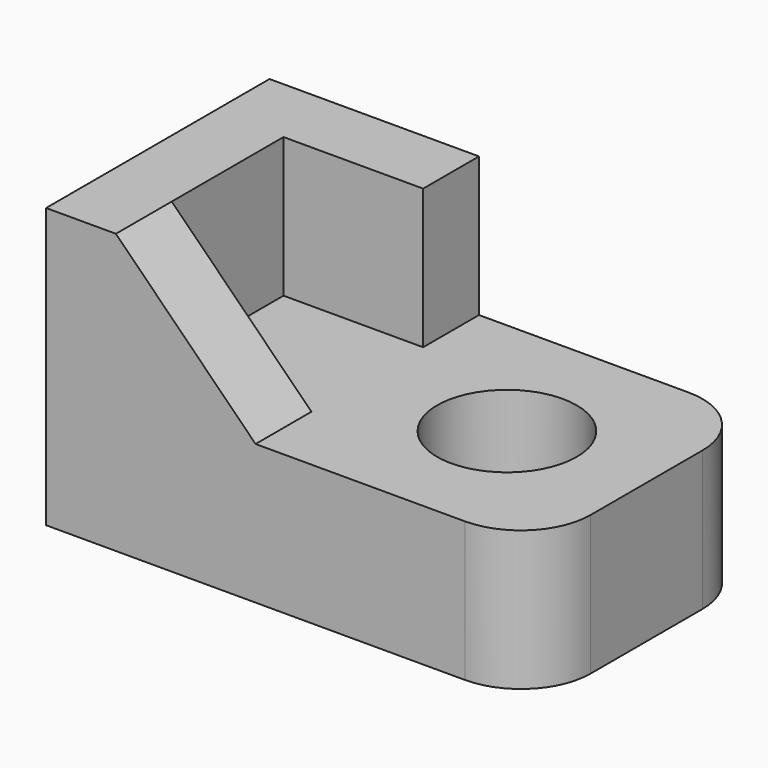
from build123d import *

# Parameters (mm, degrees)
F1_DEPTH = 40
F2_R     = 10
F3_DEPTH = 20
F4_DEPTH = 40.001
F6_DEPTH = 10.001


with BuildPart() as f1:
    # F0 (on Top) → F1 (new body)
    with BuildSketch(Plane.XY):
        with BuildLine():
            Line((0, 40), (0, 0))
            Line((0, 0), (60, 0))
            ThreePointArc((60, 0), (67.0710678119, 2.9289321881), (70, 10))
            Line((70, 10), (70, 30))
            ThreePointArc((70, 30), (67.0710678119, 37.0710678119), (60, 40))
            Line((60, 40), (0, 40))
        make_face()
    extrude(amount=F1_DEPTH)

    # F2 (on face) → F3 (cut)
    with BuildSketch(Plane.XY.offset(40)):
        with BuildLine():
            Line((60, 40), (30, 40))
            Line((30, 40), (30, 30))
            Line((30, 30), (10, 30))
            Line((10, 30), (10, 10))
            Line((10, 10), (30, 10))
            Line((30, 10), (30, 0))
            Line((30, 0), (60, 0))
            ThreePointArc((60, 0), (67.0710678119, 2.9289321881), (70, 10))
            Line((70, 10), (70, 30))
            ThreePointArc((70, 30), (67.0710678119, 37.0710678119), (60, 40))
        make_face()
        with Locations((50, 20)):
            Circle(F2_R, mode=Mode.SUBTRACT)
    extrude(amount=-F3_DEPTH, mode=Mode.SUBTRACT)

    # F4 (cut, through all): a face of the model
    f4_faces = [f1.faces().sort_by_distance(p)[0] for p in [
        (50, 20, 40),
    ]]
    extrude(f4_faces, amount=-F4_DEPTH, mode=Mode.SUBTRACT)

    # F5 (on face) → F6 (cut, through all)
    with BuildSketch(Plane(origin=(0, 10, 0), x_dir=(-1, 0, 0), z_dir=(0, 1, 0))):
        Polygon((-30, 20), (-10, 40), (-30, 40), align=None)
    extrude(amount=-F6_DEPTH, mode=Mode.SUBTRACT)


solid = f1.part
